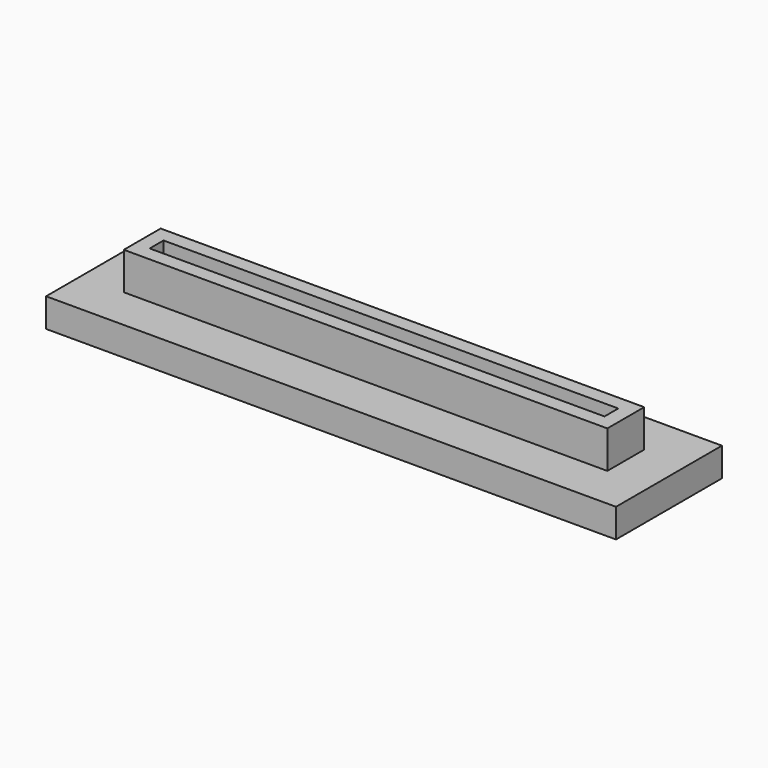
from build123d import *

# Parameters (mm, degrees)
F0_W     = 39.6
F0_H     = 9.2
F0_W_2   = 31.6
F0_H_2   = 1.2
F1_DEPTH = 2
F2_W     = 33.6
F2_H     = 3.2
F2_W_2   = 31.6
F2_H_2   = 1.2
F3_DEPTH = 2.6


with BuildPart() as f1:
    # F0 (on Top) → F1 (new body)
    with BuildSketch(Plane.XY):
        with Locations((4.5, 0.6)):
            Rectangle(F0_W, F0_H)
        with Locations((4.5, 0.6)):
            Rectangle(F0_W_2, F0_H_2, mode=Mode.SUBTRACT)
    extrude(amount=F1_DEPTH)

    # F2 (on face) → F3 (join)
    with BuildSketch(Plane.XY.offset(2)):
        with Locations((4.5, 0.6)):
            Rectangle(F2_W, F2_H)
        with Locations((4.5, 0.6)):
            Rectangle(F2_W_2, F2_H_2, mode=Mode.SUBTRACT)
    extrude(amount=F3_DEPTH)


solid = f1.part
